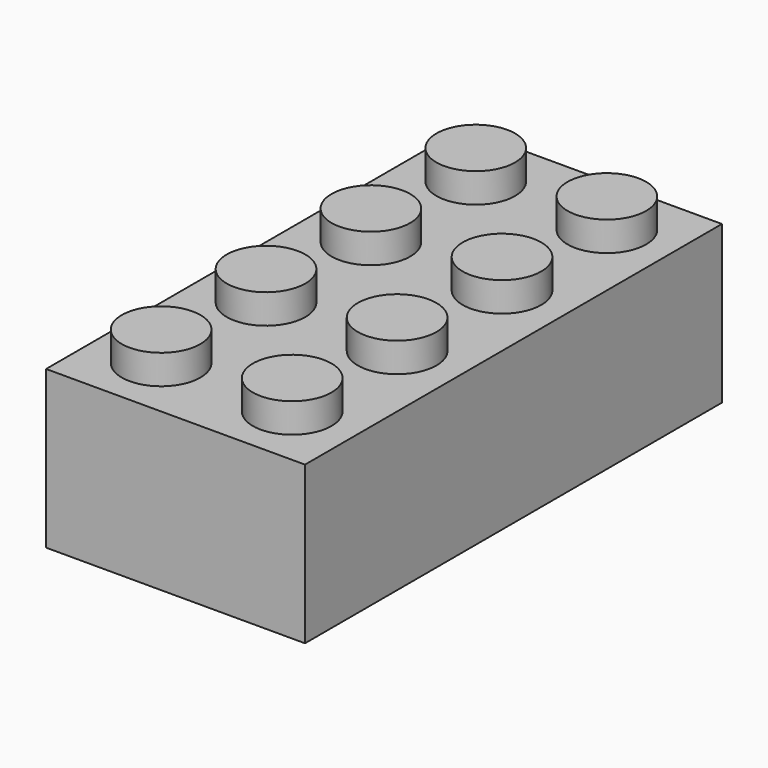
from build123d import *

# Parameters (mm, degrees)
F0_W     = 401.32
F0_H     = 807.72
F1_DEPTH = 243.84
F2_R     = 60.96
F3_DEPTH = 45.72
F4_W     = 340.36
F4_H     = 746.76
F5_DEPTH = 218.44
F6_R     = 82.55
F7_DEPTH = 213.36
F8_R     = 60.96
F9_DEPTH = 203.2


with BuildPart() as f1:
    # F0 (on Top) → F1 (new body)
    with BuildSketch(Plane.XY):
        with Locations((32.376148, 375.04495)):
            Rectangle(F0_W, F0_H)
    extrude(amount=F1_DEPTH)

    # F2 (on face) → F3 (join)
    with BuildSketch(Plane.XY.offset(243.84)):
        with Locations((-69.223852, 70.24495)):
            Circle(F2_R)
        with Locations((-69.223852, 273.44495)):
            Circle(F2_R)
        with Locations((-69.223852, 476.64495)):
            Circle(F2_R)
        with Locations((-69.223852, 679.84495)):
            Circle(F2_R)
        with Locations((133.976148, 70.24495)):
            Circle(F2_R)
        with Locations((133.976148, 273.44495)):
            Circle(F2_R)
        with Locations((133.976148, 476.64495)):
            Circle(F2_R)
        with Locations((133.976148, 679.84495)):
            Circle(F2_R)
    extrude(amount=F3_DEPTH)

    # F4 (on face) → F5 (cut)
    with BuildSketch(Plane(origin=(0, 0, 0), x_dir=(1, 0, 0), z_dir=(0, 0, -1))):
        with Locations((32.376148, -375.04495)):
            Rectangle(F4_W, F4_H)
    extrude(amount=-F5_DEPTH, mode=Mode.SUBTRACT)

    # F6 (on face) → F7 (join)
    with BuildSketch(Plane(origin=(0, 0, 218.44), x_dir=(1, 0, 0), z_dir=(0, 0, -1))):
        with Locations((32.376148, -578.24495)):
            Circle(F6_R)
        with Locations((32.376148, -375.04495)):
            Circle(F6_R)
        with Locations((32.376148, -171.84495)):
            Circle(F6_R)
    extrude(amount=F7_DEPTH)

    # F8 (on face) → F9 (cut)
    with BuildSketch(Plane(origin=(0, 0, 5.08), x_dir=(1, 0, 0), z_dir=(0, 0, -1))):
        with Locations((32.376148, -171.84495)):
            Circle(F8_R)
        with Locations((32.376148, -375.04495)):
            Circle(F8_R)
        with Locations((32.376148, -578.24495)):
            Circle(F8_R)
    extrude(amount=-F9_DEPTH, mode=Mode.SUBTRACT)


solid = f1.part
